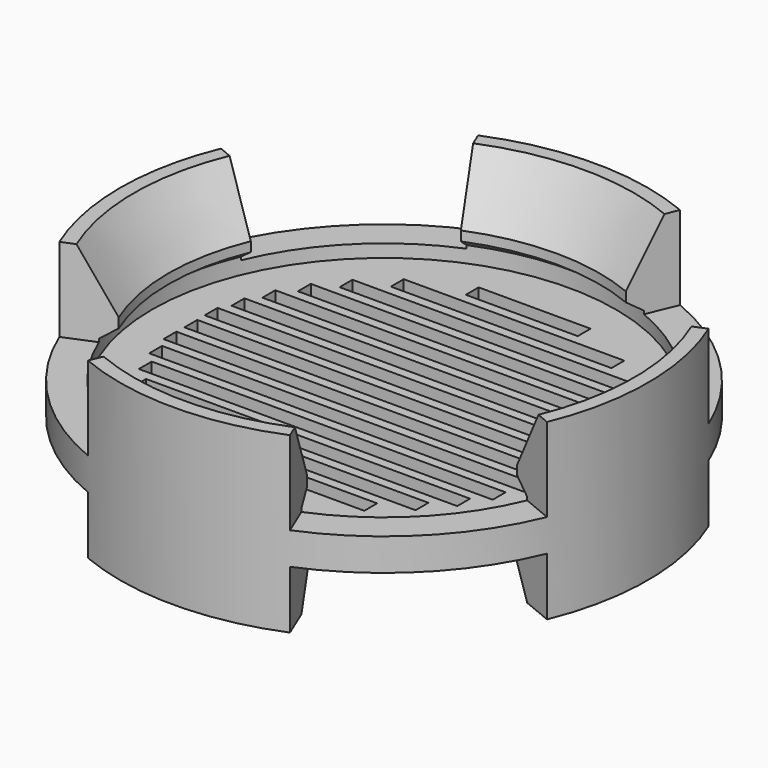
from build123d import *

# Parameters (mm, degrees)
F3_DEPTH      = 9
F4_W          = 60
F4_H          = 2.5
F4_W_2        = 60.1203209974
F4_W_3        = 58.1588600028
F4_W_4        = 54.9768405497
F4_W_5        = 50.3433510687
F4_W_6        = 43.8001483654
F4_W_7        = 17.3911758323
F4_W_8        = 34.2702932119
F5_DEPTH      = 2.5
F5_DEPTH_BACK = 25
F7_DEPTH      = 13


with BuildPart() as f1:
    # F0 (on Front) → F1 (revolve)
    with BuildSketch(Plane.XZ):
        Polygon((-41, 0), (-36, 0), (-30.5151724427, 9.5), (0, 9.5), (0, 12), (-36, 12), (-36, 14.5), (-33.5, 16.25), (-33.5, 17.75), (-38.84048999, 27), (-41, 27), align=None)
    revolve(axis=Axis((0, 0, 37.0227386814), (0, 0, 1)))

    # F2 (on face) → F3 (cut)
    with BuildSketch(Plane(origin=(0, 0, 0), x_dir=(1, 0, 0), z_dir=(0, 0, -1))):
        with BuildLine():
            Line((15.690020727, 37.879060833), (0, 0))
            Line((0, 0), (37.879060833, 15.690020727))
            ThreePointArc((37.879060833, 15.690020727), (28.9913780286, 28.9913780286), (15.690020727, 37.879060833))
        make_face()
        with BuildLine():
            Line((-37.879060833, 15.690020727), (0, 0))
            Line((0, 0), (-15.690020727, 37.879060833))
            ThreePointArc((-15.690020727, 37.879060833), (-28.9913780286, 28.9913780286), (-37.879060833, 15.690020727))
        make_face()
        with BuildLine():
            Line((-15.690020727, -37.879060833), (0, 0))
            Line((0, 0), (-37.879060833, -15.690020727))
            ThreePointArc((-37.879060833, -15.690020727), (-28.9913780286, -28.9913780286), (-15.690020727, -37.879060833))
        make_face()
        with BuildLine():
            Line((37.879060833, -15.690020727), (0, 0))
            Line((0, 0), (15.690020727, -37.879060833))
            ThreePointArc((15.690020727, -37.879060833), (28.9913780286, -28.9913780286), (37.879060833, -15.690020727))
        make_face()
    extrude(amount=-F3_DEPTH, mode=Mode.SUBTRACT)

    # F4 (on face) → F5 (cut, two sides)
    with BuildSketch(Plane(origin=(0, 0, 9.5), x_dir=(1, 0, 0), z_dir=(0, 0, -1))) as f5_sk:
        Rectangle(F4_W, F4_H)
        with Locations((0, -4)):
            Rectangle(F4_W_2, F4_H)
        with Locations((0, -8)):
            Rectangle(F4_W_3, F4_H)
        with Locations((0, -12)):
            Rectangle(F4_W_4, F4_H)
        with Locations((0, -16)):
            Rectangle(F4_W_5, F4_H)
        with Locations((0, -20)):
            Rectangle(F4_W_6, F4_H)
        with Locations((0, -28)):
            Rectangle(F4_W_7, F4_H)
        with Locations((0, -24)):
            Rectangle(F4_W_8, F4_H)
        with Locations((0, 24)):
            Rectangle(F4_W_8, F4_H)
        with Locations((0, 4)):
            Rectangle(F4_W_2, F4_H)
        with Locations((0, 16)):
            Rectangle(F4_W_5, F4_H)
        with Locations((0, 12)):
            Rectangle(F4_W_4, F4_H)
        with Locations((0, 28)):
            Rectangle(F4_W_7, F4_H)
        with Locations((0, 20)):
            Rectangle(F4_W_6, F4_H)
        with Locations((0, 8)):
            Rectangle(F4_W_3, F4_H)
    extrude(amount=-F5_DEPTH, mode=Mode.SUBTRACT)
    extrude(f5_sk.sketch, amount=F5_DEPTH_BACK, mode=Mode.SUBTRACT)

    # F6 (on face) → F7 (cut)
    with BuildSketch(Plane.XY.offset(27)):
        with BuildLine():
            Line((-15.690020727, -37.879060833), (0, 0))
            Line((0, 0), (-37.879060833, -15.690020727))
            ThreePointArc((-37.879060833, -15.690020727), (-28.9913780286, -28.9913780286), (-15.690020727, -37.879060833))
        make_face()
        with BuildLine():
            Line((37.879060833, -15.690020727), (0, 0))
            Line((0, 0), (15.690020727, -37.879060833))
            ThreePointArc((15.690020727, -37.879060833), (28.9913780286, -28.9913780286), (37.879060833, -15.690020727))
        make_face()
        with BuildLine():
            Line((15.690020727, 37.879060833), (0, 0))
            Line((0, 0), (37.879060833, 15.690020727))
            ThreePointArc((37.879060833, 15.690020727), (28.9913780286, 28.9913780286), (15.690020727, 37.879060833))
        make_face()
        with BuildLine():
            Line((-37.879060833, 15.690020727), (0, 0))
            Line((0, 0), (-15.690020727, 37.879060833))
            ThreePointArc((-15.690020727, 37.879060833), (-28.9913780286, 28.9913780286), (-37.879060833, 15.690020727))
        make_face()
    extrude(amount=-F7_DEPTH, mode=Mode.SUBTRACT)


solid = f1.part
